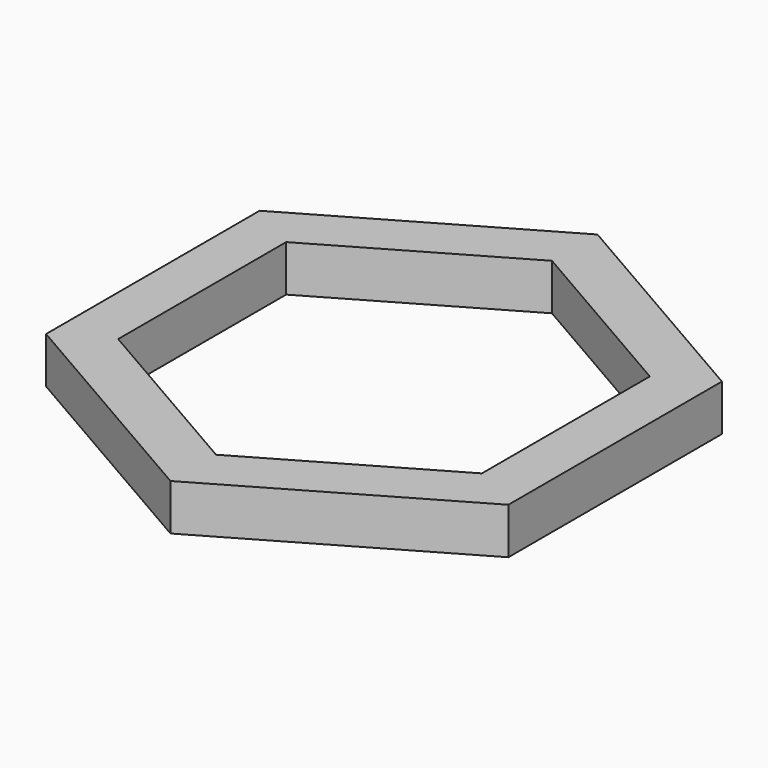
from build123d import *

# Parameters (mm, degrees)
F1_DEPTH = 3
F3_DEPTH = 25


with BuildPart() as f1:
    # F0 (on Top) → F1 (new body)
    with BuildSketch(Plane.XY):
        Polygon((15, -8.660254), (15, 8.660254), (0, 17.320508), (-15, 8.660254), (-15, -8.660254), (0, -17.320508), align=None)
    extrude(amount=F1_DEPTH)

    # F2 (on face) → F3 (cut)
    with BuildSketch(Plane.XY.offset(3)):
        Polygon((0, -13.625466), (11.8, -6.812733), (11.8, 6.812733), (0, 13.625466), (-11.8, 6.812733), (-11.8, -6.812733), align=None)
    extrude(amount=-F3_DEPTH, mode=Mode.SUBTRACT)


solid = f1.part
